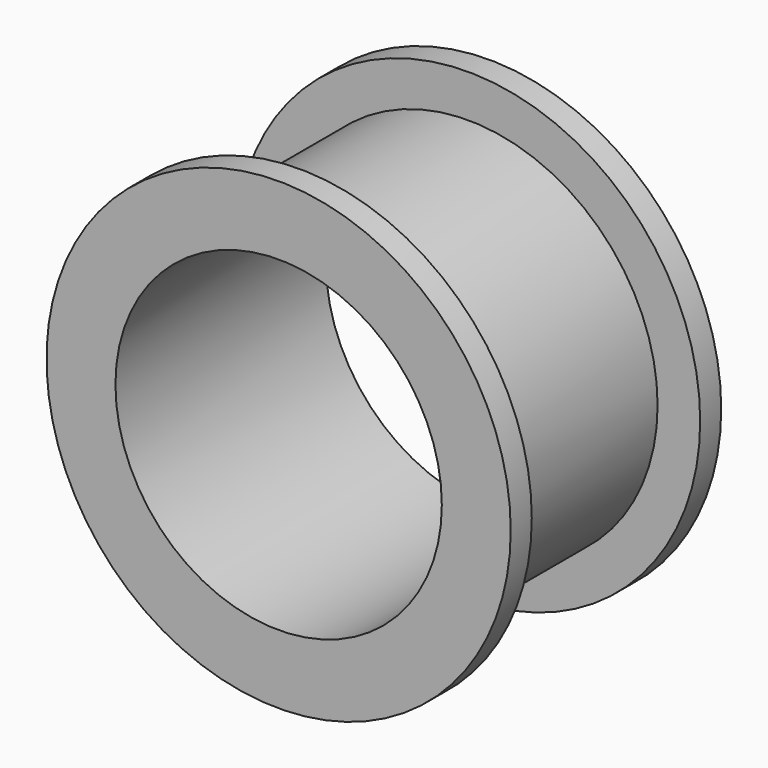
from build123d import *

# Parameters (mm, degrees)
F0_R     = 67.21811
F0_R_2   = 47.261585
F1_DEPTH = 76.2
F2_T     = -7.62


with BuildPart() as f1:
    # F0 (on Front) → F1 (new body)
    with BuildSketch(Plane.XZ):
        Circle(F0_R)
        Circle(F0_R_2, mode=Mode.SUBTRACT)
    extrude(amount=F1_DEPTH)

    # F2
    f2_openings = [f1.faces().sort_by_distance(p)[0] for p in [
        (-67.21811, -38.1, 0),
    ]]
    offset(amount=F2_T, openings=f2_openings)


solid = f1.part
